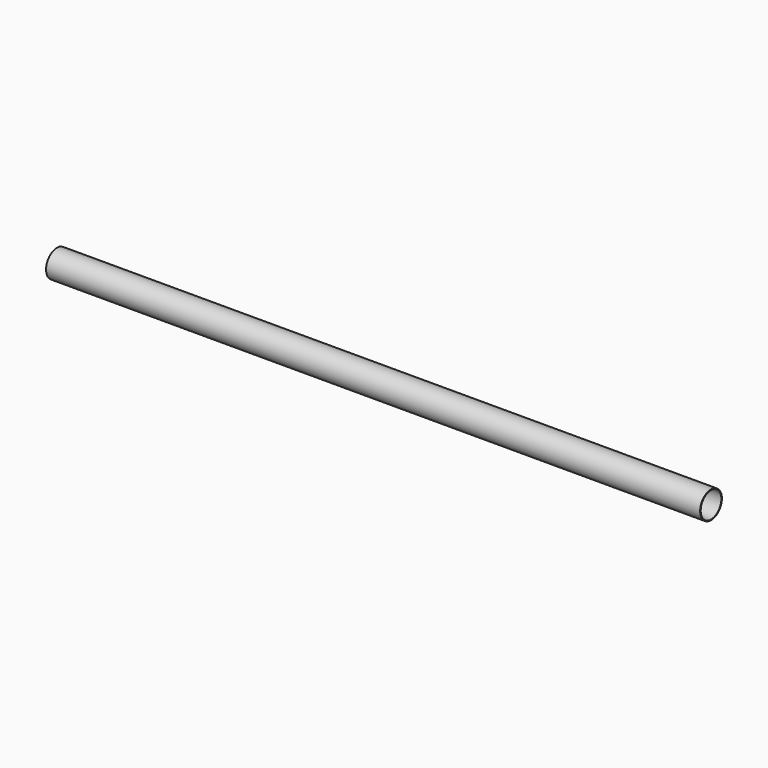
from build123d import *

# Parameters (mm, degrees)
F2_R   = 19.05
F2_R_2 = 18.05


with BuildPart() as f3:
    # F3: sweep along a path in F0
    with BuildLine(Plane.XY) as f3_path:
        Line((-457.2, 0), (457.2, 0))
    # F2 (on face) → F3 (sweep)
    with BuildSketch(Plane.YZ.offset(-457.2)):
        Circle(F2_R)
        Circle(F2_R_2, mode=Mode.SUBTRACT)
    sweep(path=f3_path.line)


solid = f3.part
